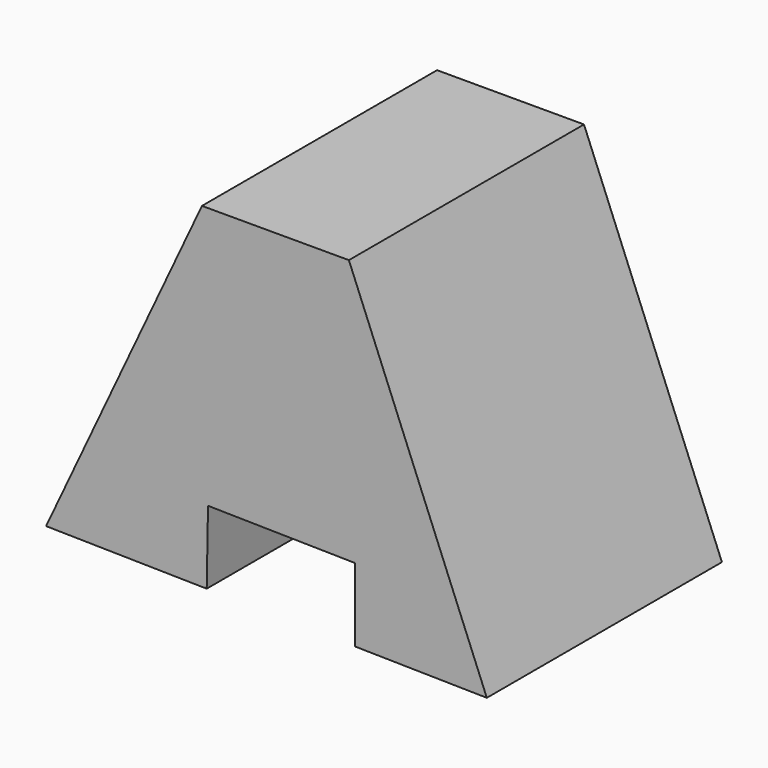
from build123d import *

# Parameters (mm, degrees)
F1_DEPTH = 25.4
F3_DEPTH = 25.4
F4_DEPTH = 50.8


with BuildPart() as f1:
    # F0 (on Front) → F1 (new body)
    with BuildSketch(Plane.XZ):
        Polygon((6.2624249645, 28.3681909489), (-7.2102827521, -0.3815681245), (30.8836984568, -1.0587650323), (18.9624249645, 28.3681909489), align=None)
    extrude(amount=F1_DEPTH)

    # F2 (on face) → F3 (join)
    with BuildSketch(Plane.XZ.offset(25.4)):
        Polygon((6.7862393458, 5.7196156272), (6.6733910244, -0.6283782675), (19.4842330822, -0.8561166753), (19.4842330822, 5.4938833247), align=None)
    extrude(amount=F3_DEPTH)

    # F4 (cut): a face of the model
    f4_faces = [f1.faces().sort_by_distance(p)[0] for p in [
        (13.1069825312, -50.8, 2.42756979),
    ]]
    extrude(f4_faces, amount=-F4_DEPTH, mode=Mode.SUBTRACT)


solid = f1.part
